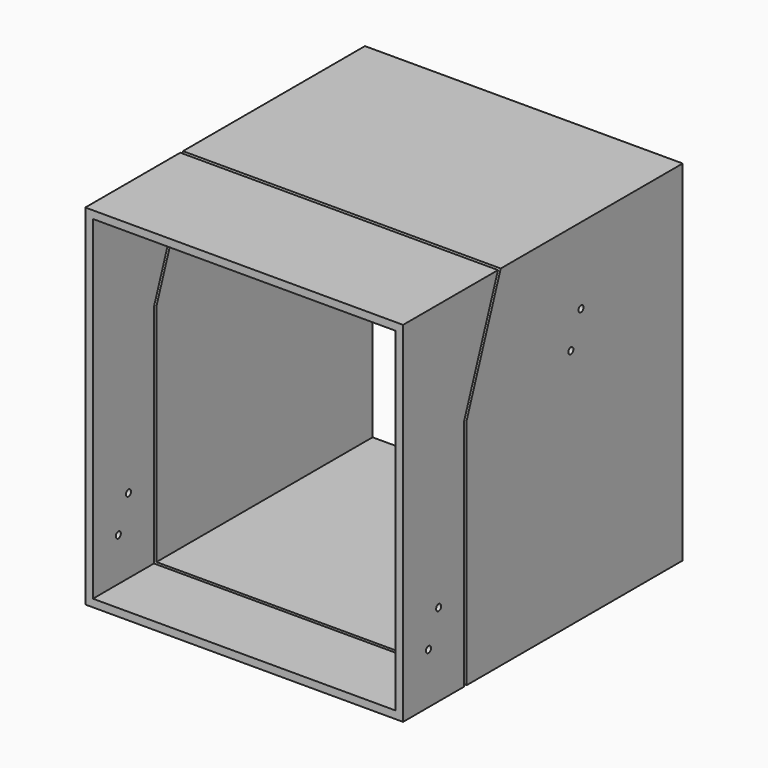
from build123d import *

# Parameters (mm, degrees)
F0_W     = 500
F0_H     = 550
F1_DEPTH = 550
F3_DEPTH = 588
F4_W     = 476
F4_H     = 526
F5_DEPTH = 550.001
F6_R     = 5
F7_DEPTH = 25
F8_DEPTH = 1105


with BuildPart() as f1:
    # F0 (on Top) → F1 (new body)
    with BuildSketch(Plane.XY):
        with Locations((250, 275)):
            Rectangle(F0_W, F0_H)
    extrude(amount=F1_DEPTH)

    # F2 (on face) → F3 (cut)
    with BuildSketch(Plane.YZ.offset(500)):
        Polygon((119.9864, 367.413739), (119.9864, 0), (124.9864, 0), (124.9864, 366.52818), (192.081049, 550), (186.757205, 550), align=None)
    extrude(amount=-F3_DEPTH, mode=Mode.SUBTRACT)

    # F4 (on face) → F5 (cut, through all)
    with BuildSketch(Plane.XZ):
        with Locations((250, 275)):
            Rectangle(F4_W, F4_H)
    extrude(amount=-F5_DEPTH, mode=Mode.SUBTRACT)

    # F6 (on face) → F8 (cut)
    with BuildSketch(Plane(origin=(0, 0, 0), x_dir=(0, -1, 0), z_dir=(-1, 0, 0))):
        with Locations((-350, 430)):
            Circle(F6_R)
        with Locations((-330, 380)):
            Circle(F6_R)
        with Locations((-70, 130)):
            Circle(F6_R)
        with Locations((-50, 80)):
            Circle(F6_R)
    extrude(amount=-F8_DEPTH, mode=Mode.SUBTRACT)


with BuildPart() as f7:
    # F6 (on face) → F7 (new body)
    with BuildSketch(Plane(origin=(0, 0, 0), x_dir=(0, -1, 0), z_dir=(-1, 0, 0))):
        with BuildLine():
            Line((-64.151558, 135.458546), (-124.9864, 200.638734))
            Line((-124.9864, 200.638734), (-124.9864, 177.189266))
            Line((-124.9864, 177.189266), (-75.848442, 124.541454))
            ThreePointArc((-75.848442, 124.541454), (-64.541454, 124.151558), (-64.151558, 135.458546))
        make_face()
        with Locations((-70, 130)):
            Circle(F6_R, mode=Mode.SUBTRACT)
        with BuildLine():
            Line((-124.9864, 172.067305), (-124.9864, 148.617837))
            Line((-124.9864, 148.617837), (-55.848442, 74.541454))
            ThreePointArc((-55.848442, 74.541454), (-44.541454, 74.151558), (-44.151558, 85.458546))
            Line((-44.151558, 85.458546), (-124.9864, 172.067305))
        make_face()
        with Locations((-50, 80)):
            Circle(F6_R, mode=Mode.SUBTRACT)
        with BuildLine():
            Line((-335.848442, 374.541454), (-124.9864, 148.617837))
            Line((-124.9864, 148.617837), (-124.9864, 172.067305))
            Line((-124.9864, 172.067305), (-324.151558, 385.458546))
            ThreePointArc((-324.151558, 385.458546), (-335.458546, 385.848442), (-335.848442, 374.541454))
        make_face()
        with Locations((-330, 380)):
            Circle(F6_R, mode=Mode.SUBTRACT)
        with BuildLine():
            Line((-124.9864, 177.189266), (-124.9864, 200.638734))
            Line((-124.9864, 200.638734), (-344.151558, 435.458546))
            ThreePointArc((-344.151558, 435.458546), (-355.458546, 435.848442), (-355.848442, 424.541454))
            Line((-355.848442, 424.541454), (-124.9864, 177.189266))
        make_face()
        with Locations((-350, 430)):
            Circle(F6_R, mode=Mode.SUBTRACT)
    extrude(amount=F7_DEPTH)


solid = Compound([f1.part, f7.part])
